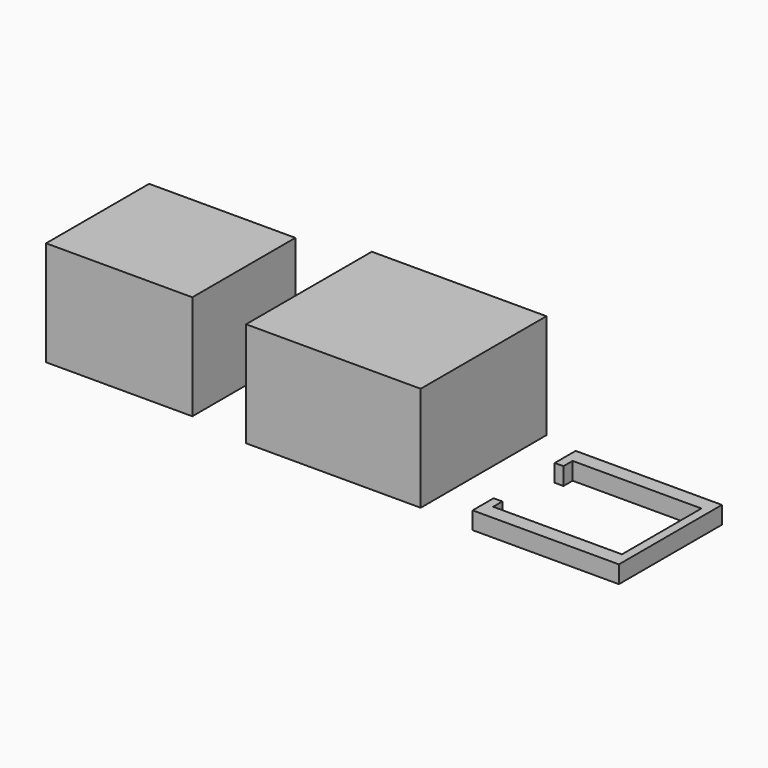
from build123d import *

# Parameters (mm, degrees)
F0_W     = 1016
F0_H     = 914.4
F1_DEPTH = 609.6
F2_W     = 850.9
F2_H     = 749.3
F3_DEPTH = 609.6
F5_DEPTH = 101.6


with BuildPart() as f1:
    # F0 (on Top) → F1 (new body)
    with BuildSketch(Plane.XY):
        with Locations((-64.1343, -61.316494)):
            Rectangle(F0_W, F0_H)
    extrude(amount=F1_DEPTH)


with BuildPart() as f3:
    # F2 (on Top) → F3 (new body)
    with BuildSketch(Plane.XY):
        with Locations((-1353.928777, -89.16247)):
            Rectangle(F2_W, F2_H)
    extrude(amount=F3_DEPTH)


with BuildPart() as f5:
    # F4 (on Top) → F5 (new body)
    with BuildSketch(Plane.XY):
        Polygon((1616.719279, 206.319807), (765.819279, 206.319807), (765.819279, 53.919807), (816.619279, 53.919807), (816.619279, 120.594807), (1565.919279, 120.594807), (1565.919279, -457.255193), (816.619279, -457.255193), (816.619279, -390.580193), (765.819279, -390.580193), (765.819279, -542.980193), (1616.719279, -542.980193), align=None)
    extrude(amount=F5_DEPTH)


solid = Compound([f1.part, f3.part, f5.part])
